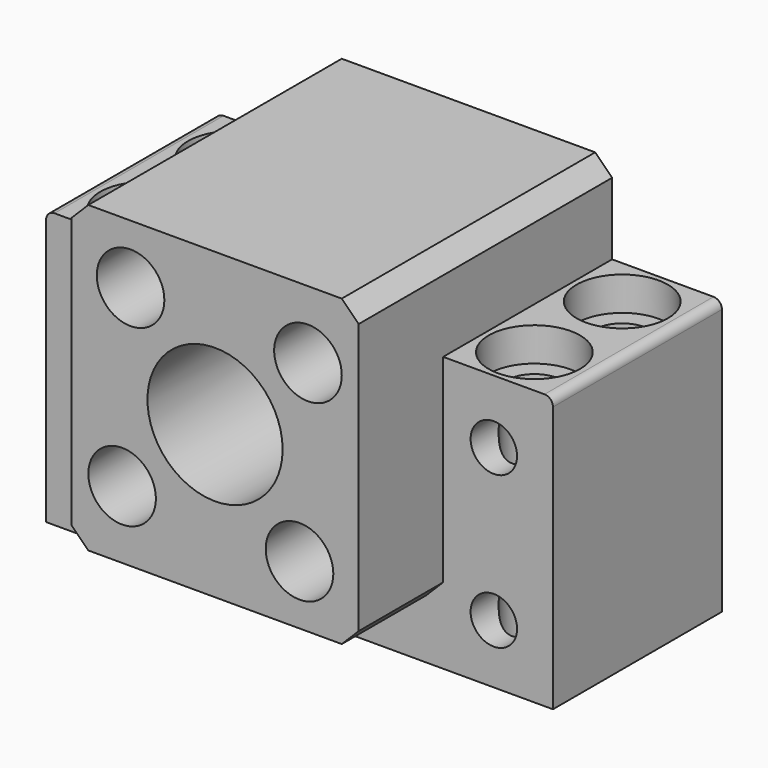
from build123d import *

# Parameters (mm, degrees)
F0_R      = 2.75
F0_R_2    = 4
F0_R_3    = 8
F2_DEPTH  = 12.5
F0_R_4    = 5
F3_DEPTH  = 7.5
F4_R      = 1
F5_R      = 3.3
F6_DEPTH  = 32.5
F8_DEPTH  = 25
F9_SIZE   = 2
F7_R      = 5.4
F7_R_2    = 3.3
F10_DEPTH = 4


with BuildPart() as f2:
    # F0 (on Front) → F2 (new body, symmetric)
    with BuildSketch(Plane.XZ):
        Polygon((-17, 25.6028276384), (-30, 25.6028276384), (-30, -6.8971723616), (30, -6.8971723616), (30, 25.6028276384), (17, 25.6028276384), (17, 0.1028276384), (-17, 0.1028276384), align=None)
        with Locations((-23, 0.1028276384)):
            Circle(F0_R, mode=Mode.SUBTRACT)
        with Locations((23, 0.1028276384)):
            Circle(F0_R, mode=Mode.SUBTRACT)
        with Locations((-23, 18.1028276384)):
            Circle(F0_R, mode=Mode.SUBTRACT)
        with Locations((23, 18.1028276384)):
            Circle(F0_R, mode=Mode.SUBTRACT)
        Polygon((-17, 36.1028276384), (-17, 25.6028276384), (-17, 0.1028276384), (17, 0.1028276384), (17, 25.6028276384), (17, 36.1028276384), align=None)
        with Locations((-11, 8.1028276384)):
            Circle(F0_R_2, mode=Mode.SUBTRACT)
        with Locations((10, 7.1028276384)):
            Circle(F0_R_2, mode=Mode.SUBTRACT)
        with Locations((-10, 29.1028276384)):
            Circle(F0_R_2, mode=Mode.SUBTRACT)
        with Locations((0, 18.1028276384)):
            Circle(F0_R_3, mode=Mode.SUBTRACT)
        with Locations((11, 28.1028276384)):
            Circle(F0_R_2, mode=Mode.SUBTRACT)
    extrude(amount=F2_DEPTH, both=True)

    # F0 (on Front) → F3 (join, symmetric)
    with BuildSketch(Plane.XZ):
        with Locations((0, 18.1028276384)):
            Circle(F0_R_3)
        with Locations((0, 18.1028276384)):
            Circle(F0_R_4, mode=Mode.SUBTRACT)
    extrude(amount=F3_DEPTH, both=True)

    # F4
    f4_edges = [f2.edges().sort_by_distance(p)[0] for p in [
        (-30, 0, 25.602828),
        (30, 0, 25.602828),
    ]]
    fillet(f4_edges, radius=F4_R)

    # F5 (on face) → F6 (cut)
    with BuildSketch(Plane(origin=(0, 0, -6.8971723616), x_dir=(1, 0, 0), z_dir=(0, 0, -1))):
        with Locations((23, -6.5)):
            Circle(F5_R)
        with Locations((-23, -6.5)):
            Circle(F5_R)
        with Locations((-23, 6.5)):
            Circle(F5_R)
        with Locations((23, 6.5)):
            Circle(F5_R)
    extrude(amount=-F6_DEPTH, mode=Mode.SUBTRACT)

    # F0 (on Front) → F8 (join)
    with BuildSketch(Plane.XZ):
        Polygon((-17, 36.1028276384), (-17, 25.6028276384), (-17, 0.1028276384), (17, 0.1028276384), (17, 25.6028276384), (17, 36.1028276384), align=None)
        with Locations((-11, 8.1028276384)):
            Circle(F0_R_2, mode=Mode.SUBTRACT)
        with Locations((10, 7.1028276384)):
            Circle(F0_R_2, mode=Mode.SUBTRACT)
        with Locations((-10, 29.1028276384)):
            Circle(F0_R_2, mode=Mode.SUBTRACT)
        with Locations((0, 18.1028276384)):
            Circle(F0_R_3, mode=Mode.SUBTRACT)
        with Locations((11, 28.1028276384)):
            Circle(F0_R_2, mode=Mode.SUBTRACT)
    extrude(amount=F8_DEPTH)

    # F9
    f9_edges = [f2.edges().sort_by_distance(p)[0] for p in [
        (-17, -6.25, 36.102828),
        (17, -6.25, 36.102828),
        (17, -18.75, 0.102828),
        (-17, -18.75, 0.102828),
    ]]
    chamfer(f9_edges, length=F9_SIZE)

    # F7 (on face) → F10 (cut)
    with BuildSketch(Plane.XY.offset(25.6028276384)):
        with Locations((-23, -6.5)):
            Circle(F7_R)
        with Locations((-23, -6.5)):
            Circle(F7_R_2, mode=Mode.SUBTRACT)
        with Locations((-23, 6.5)):
            Circle(F7_R)
        with Locations((-23, 6.5)):
            Circle(F7_R_2, mode=Mode.SUBTRACT)
        with Locations((23, -6.5)):
            Circle(F7_R)
        with Locations((23, -6.5)):
            Circle(F7_R_2, mode=Mode.SUBTRACT)
        with Locations((23, 6.5)):
            Circle(F7_R)
        with Locations((23, 6.5)):
            Circle(F7_R_2, mode=Mode.SUBTRACT)
    extrude(amount=-F10_DEPTH, mode=Mode.SUBTRACT)


solid = f2.part
